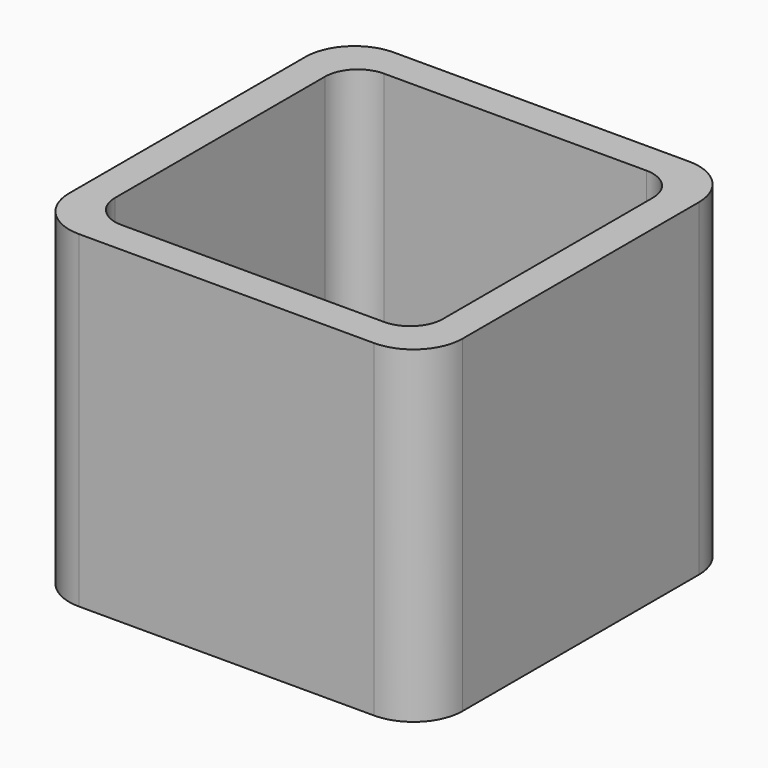
from build123d import *

# Parameters (mm, degrees)
EXTRUDE_DEPTH = 50


with BuildPart() as part:
    # Sketch → Extrude (new body)
    with BuildSketch(Plane.XY):
        with BuildLine():
            Line((-22.5, 30), (22.5, 30))
            ThreePointArc((30, 22.5), (27.803301, 27.803301), (22.5, 30))
            Line((30, 22.5), (30, -22.5))
            ThreePointArc((22.5, -30), (27.803301, -27.803301), (30, -22.5))
            Line((22.5, -30), (-22.5, -30))
            ThreePointArc((-30, -22.5), (-27.803301, -27.803301), (-22.5, -30))
            Line((-30, -22.5), (-30, 22.5))
            ThreePointArc((-22.5, 30), (-27.803301, 27.803301), (-30, 22.5))
        make_face()
        with BuildLine():
            Line((-20, 25), (20, 25))
            ThreePointArc((25, 20), (23.535534, 23.535534), (20, 25))
            Line((25, 20), (25, -20))
            ThreePointArc((20, -25), (23.535534, -23.535534), (25, -20))
            Line((20, -25), (-20, -25))
            ThreePointArc((-25, -20), (-23.535534, -23.535534), (-20, -25))
            Line((-25, -20), (-25, 20))
            ThreePointArc((-20, 25), (-23.535534, 23.535534), (-25, 20))
        make_face(mode=Mode.SUBTRACT)
    extrude(amount=EXTRUDE_DEPTH)


solid = part.part
